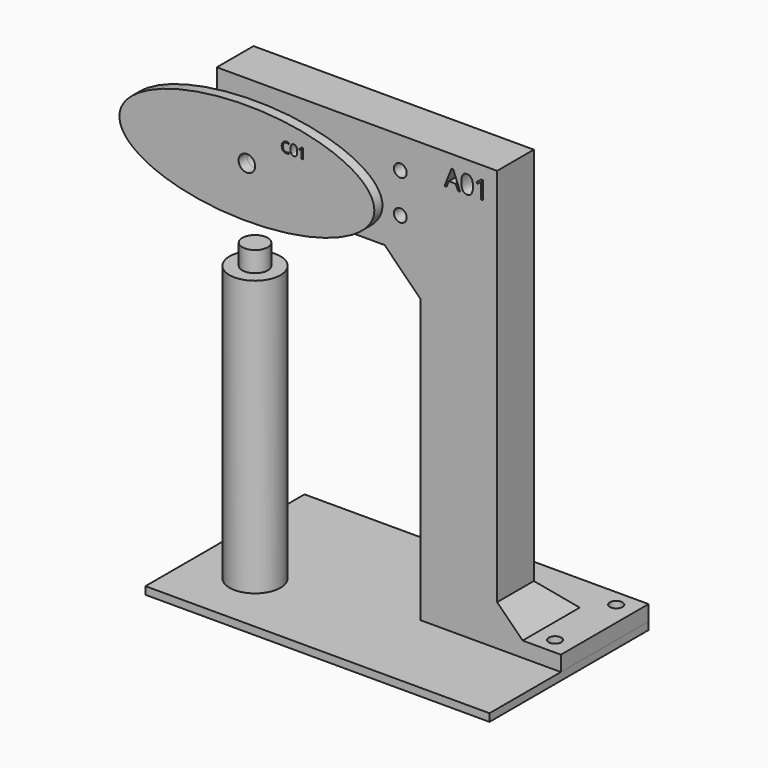
from build123d import *

# Parameters (mm, degrees)
F1_DEPTH  = 18
F2_R      = 2.5
F2_R_2    = 8.5
F3_DEPTH  = 18.0010001
F4_W      = 80
F4_H      = 30
F5_DEPTH  = 10
F6_R      = 2.5
F7_DEPTH  = 6
F8_SIZE   = 10
F10_R     = 3.25
F11_DEPTH = 4
F12_R     = 6.25
F12_R_2   = 3.25
F13_DEPTH = 9
F14_R     = 6.25
F14_R_2   = 1.5
F15_DEPTH = 6
F16_W     = 5
F16_H     = 108
F18_W     = 135
F18_H     = 78
F19_DEPTH = 3


with BuildPart() as f1:
    # F0 (on Front) → F1 (new body)
    with BuildSketch(Plane.XZ):
        Polygon((0, 110.8578643763), (0, 0), (30, 0), (30, 165), (-80, 165), (-80, 125), (-14.1421356237, 125), align=None)
        Polygon((15.4613284809, 153.0319913823), (14.6296434245, 153.0319913823), (13.7692274298, 155.2291520858), (11.0004722695, 155.2291520858), (10.1506413574, 153.0319913823), (9.3371021568, 153.0319913823), (12.0680534509, 159.969756907), (12.7439865785, 159.969756907), align=None, mode=Mode.SUBTRACT)
        with BuildLine():
            add(Edge.make_bspline(
                [(19.9297454655, 159.1373157734), (20.5134371596, 158.2247304433), (20.5134371596, 156.4963376808)],
                knots=[0, 0, 0, 1, 1, 1], degree=2))
            add(Edge.make_bspline(
                [(20.5134371596, 156.4963376808), (20.5134371596, 154.704434423), (19.9486473986, 153.8205800312)],
                knots=[0, 0, 0, 1, 1, 1], degree=2))
            add(Edge.make_bspline(
                [(19.9486473986, 153.8205800312), (19.3838576376, 152.9367256395), (18.2210107133, 152.9367256395)],
                knots=[0, 0, 0, 1, 1, 1], degree=2))
            add(Edge.make_bspline(
                [(18.2210107133, 152.9367256395), (17.1065527378, 152.9367256395), (16.5251292757, 153.8417501963)],
                knots=[0, 0, 0, 1, 1, 1], degree=2))
            add(Edge.make_bspline(
                [(16.5251292757, 153.8417501963), (15.9437058136, 154.7467747531), (15.9437058136, 156.4963376808)],
                knots=[0, 0, 0, 1, 1, 1], degree=2))
            add(Edge.make_bspline(
                [(15.9437058136, 156.4963376808), (15.9437058136, 158.3003381757), (16.5062273426, 159.1751196396)],
                knots=[0, 0, 0, 1, 1, 1], degree=2))
            add(Edge.make_bspline(
                [(16.5062273426, 159.1751196396), (17.0687488716, 160.0499011034), (18.2210107133, 160.0499011034)],
                knots=[0, 0, 0, 1, 1, 1], degree=2))
            add(Edge.make_bspline(
                [(18.2210107133, 160.0499011034), (19.3460537714, 160.0499011034), (19.9297454655, 159.1373157734)],
                knots=[0, 0, 0, 1, 1, 1], degree=2))
        make_face(mode=Mode.SUBTRACT)
        with BuildLine():
            Line((24.3724558211, 159.9410259687), (24.3724558211, 153.0319913823))
            Line((24.3724558211, 153.0319913823), (23.6073055693, 153.0319913823))
            Line((23.6073055693, 153.0319913823), (23.6073055693, 157.955566916))
            add(Edge.make_bspline(
                [(23.6073055693, 157.955566916), (23.6073055693, 158.5710138577), (23.6451094355, 159.1184138403)],
                knots=[0, 0, 0, 1, 1, 1], degree=2))
            add(Edge.make_bspline(
                [(23.6451094355, 159.1184138403), (23.5468193833, 159.0186116335), (23.4235787795, 158.9104925762)],
                knots=[0, 0, 0, 1, 1, 1], degree=2))
            add(Edge.make_bspline(
                [(23.4235787795, 158.9104925762), (23.3003381757, 158.8023735188), (22.2992917988, 157.9888343183)],
                knots=[0, 0, 0, 1, 1, 1], degree=2))
            Line((22.2992917988, 157.9888343183), (21.8834492706, 158.5271613729))
            Line((21.8834492706, 158.5271613729), (23.71164424, 159.9410259687))
            Line((23.71164424, 159.9410259687), (24.3724558211, 159.9410259687))
        make_face(mode=Mode.SUBTRACT)
    extrude(amount=F1_DEPTH)

    # F2 (on face) → F3 (cut, through all)
    with BuildSketch(Plane.XZ.offset(18)):
        with Locations((-75, 152.75)):
            Circle(F2_R)
        with Locations((-75, 137.25)):
            Circle(F2_R)
        with Locations((-8, 137.25)):
            Circle(F2_R)
        with Locations((-8, 152.75)):
            Circle(F2_R)
        with Locations((-57, 145)):
            Circle(F2_R_2)
    extrude(amount=-F3_DEPTH, mode=Mode.SUBTRACT)

    # F4 (on face) → F5 (cut)
    with BuildSketch(Plane(origin=(0, 0, 0), x_dir=(-1, 0, 0), z_dir=(0, 1, 0))):
        with Locations((40, 145)):
            Rectangle(F4_W, F4_H)
    extrude(amount=-F5_DEPTH, mode=Mode.SUBTRACT)

    # F6 (on Top) → F7 (join)
    with BuildSketch(Plane.XY):
        Polygon((55, 25), (0, 25), (0, 0), (0, -18), (30, -18), (55, -18), align=None)
        with Locations((47.5, -11.5)):
            Circle(F6_R, mode=Mode.SUBTRACT)
        with Locations((7.5, 18.5)):
            Circle(F6_R, mode=Mode.SUBTRACT)
        with Locations((47.5, 18.5)):
            Circle(F6_R, mode=Mode.SUBTRACT)
    extrude(amount=F7_DEPTH)

    # F8
    f8_edges = [f1.edges().sort_by_distance(p)[0] for p in [
        (30, -9, 6),
        (15, 0, 6),
    ]]
    chamfer(f8_edges, length=F8_SIZE)


with BuildPart() as f11:
    # F10 (on offset) → F11 (new body)
    with BuildSketch(Plane.XZ.offset(28)):
        with BuildLine():
            add(Edge.make_bspline(
                [(-107, 145), (-107, 110.3589838486), (-32, 127.6794919243), (43, 145), (-32, 162.3205080757), (-107, 179.6410161514), (-107, 145)],
                knots=[0, 0, 0, 2.0943951024, 2.0943951024, 4.1887902048, 4.1887902048, 6.2831853072, 6.2831853072, 6.2831853072], degree=2, weights=[1, 0.5, 1, 0.5, 1, 0.5, 1]))
        make_face()
        with Locations((-57, 145)):
            Circle(F10_R, mode=Mode.SUBTRACT)
        with BuildLine():
            add(Edge.make_bspline(
                [(-40.5210034417, 156.906631814), (-40.9718289642, 157.1177119719), (-41.4226544866, 157.1177119719)],
                knots=[0, 0, 0, 1, 1, 1], degree=2))
            add(Edge.make_bspline(
                [(-41.4226544866, 157.1177119719), (-42.0767423833, 157.1177119719), (-42.4554705678, 156.6820876954)],
                knots=[0, 0, 0, 1, 1, 1], degree=2))
            add(Edge.make_bspline(
                [(-42.4554705678, 156.6820876954), (-42.8341987523, 156.2464634189), (-42.8341987523, 155.4890070499)],
                knots=[0, 0, 0, 1, 1, 1], degree=2))
            add(Edge.make_bspline(
                [(-42.8341987523, 155.4890070499), (-42.8341987523, 154.7107032578), (-42.4689345285, 154.2855026928)],
                knots=[0, 0, 0, 1, 1, 1], degree=2))
            add(Edge.make_bspline(
                [(-42.4689345285, 154.2855026928), (-42.1036703046, 153.8603021278), (-41.4278663423, 153.8603021278)],
                knots=[0, 0, 0, 1, 1, 1], degree=2))
            add(Edge.make_bspline(
                [(-41.4278663423, 153.8603021278), (-41.0126551675, 153.8603021278), (-40.4801772384, 154.0097086593)],
                knots=[0, 0, 0, 1, 1, 1], degree=2))
            Line((-40.4801772384, 154.0097086593), (-40.4801772384, 153.6057898387))
            add(Edge.make_bspline(
                [(-40.4801772384, 153.6057898387), (-40.8927824853, 153.4503028088), (-41.498226395, 153.4503028088)],
                knots=[0, 0, 0, 1, 1, 1], degree=2))
            add(Edge.make_bspline(
                [(-41.498226395, 153.4503028088), (-42.3746868037, 153.4503028088), (-42.8511372835, 153.982780738)],
                knots=[0, 0, 0, 1, 1, 1], degree=2))
            add(Edge.make_bspline(
                [(-42.8511372835, 153.982780738), (-43.3275877634, 154.5152586671), (-43.3275877634, 155.4950875482)],
                knots=[0, 0, 0, 1, 1, 1], degree=2))
            add(Edge.make_bspline(
                [(-43.3275877634, 155.4950875482), (-43.3275877634, 156.1083492415), (-43.0982661104, 156.5695984755)],
                knots=[0, 0, 0, 1, 1, 1], degree=2))
            add(Edge.make_bspline(
                [(-43.0982661104, 156.5695984755), (-42.8689444573, 157.0308477094), (-42.4359261087, 157.2805824641)],
                knots=[0, 0, 0, 1, 1, 1], degree=2))
            add(Edge.make_bspline(
                [(-42.4359261087, 157.2805824641), (-42.0029077601, 157.5303172188), (-41.4165739882, 157.5303172188)],
                knots=[0, 0, 0, 1, 1, 1], degree=2))
            add(Edge.make_bspline(
                [(-41.4165739882, 157.5303172188), (-40.7928885834, 157.5303172188), (-40.3255588511, 157.302732851)],
                knots=[0, 0, 0, 1, 1, 1], degree=2))
            Line((-40.3255588511, 157.302732851), (-40.5210034417, 156.906631814))
        make_face(mode=Mode.SUBTRACT)
        with BuildLine():
            add(Edge.make_bspline(
                [(-37.5928091526, 157.012171893), (-37.2575130993, 156.4879460687), (-37.2575130993, 155.4950875482)],
                knots=[0, 0, 0, 1, 1, 1], degree=2))
            add(Edge.make_bspline(
                [(-37.2575130993, 155.4950875482), (-37.2575130993, 154.4657460375), (-37.5819511197, 153.9580244231)],
                knots=[0, 0, 0, 1, 1, 1], degree=2))
            add(Edge.make_bspline(
                [(-37.5819511197, 153.9580244231), (-37.9063891402, 153.4503028088), (-38.5743753189, 153.4503028088)],
                knots=[0, 0, 0, 1, 1, 1], degree=2))
            add(Edge.make_bspline(
                [(-38.5743753189, 153.4503028088), (-39.2145649336, 153.4503028088), (-39.5485580229, 153.9701854199)],
                knots=[0, 0, 0, 1, 1, 1], degree=2))
            add(Edge.make_bspline(
                [(-39.5485580229, 153.9701854199), (-39.8825511123, 154.490068031), (-39.8825511123, 155.4950875482)],
                knots=[0, 0, 0, 1, 1, 1], degree=2))
            add(Edge.make_bspline(
                [(-39.8825511123, 155.4950875482), (-39.8825511123, 156.5313782), (-39.5594160558, 157.0338879586)],
                knots=[0, 0, 0, 1, 1, 1], degree=2))
            add(Edge.make_bspline(
                [(-39.5594160558, 157.0338879586), (-39.2362809992, 157.5363977172), (-38.5743753189, 157.5363977172)],
                knots=[0, 0, 0, 1, 1, 1], degree=2))
            add(Edge.make_bspline(
                [(-38.5743753189, 157.5363977172), (-37.9281052058, 157.5363977172), (-37.5928091526, 157.012171893)],
                knots=[0, 0, 0, 1, 1, 1], degree=2))
        make_face(mode=Mode.SUBTRACT)
        with BuildLine():
            Line((-35.04073712, 157.4738554482), (-35.04073712, 153.5050272942))
            Line((-35.04073712, 153.5050272942), (-35.4802702883, 153.5050272942))
            Line((-35.4802702883, 153.5050272942), (-35.4802702883, 156.3333276814))
            add(Edge.make_bspline(
                [(-35.4802702883, 156.3333276814), (-35.4802702883, 156.6868652299), (-35.4585542227, 157.0013138601)],
                knots=[0, 0, 0, 1, 1, 1], degree=2))
            add(Edge.make_bspline(
                [(-35.4585542227, 157.0013138601), (-35.5150159933, 156.9439834469), (-35.5858103673, 156.8818754992)],
                knots=[0, 0, 0, 1, 1, 1], degree=2))
            add(Edge.make_bspline(
                [(-35.5858103673, 156.8818754992), (-35.6566047412, 156.8197675515), (-36.231646159, 156.3524378192)],
                knots=[0, 0, 0, 1, 1, 1], degree=2))
            Line((-36.231646159, 156.3524378192), (-36.4705228809, 156.6616745937))
            Line((-36.4705228809, 156.6616745937), (-35.4203339472, 157.4738554482))
            Line((-35.4203339472, 157.4738554482), (-35.04073712, 157.4738554482))
        make_face(mode=Mode.SUBTRACT)
    extrude(amount=F11_DEPTH)

    # F12 (on face) → F13 (join)
    with BuildSketch(Plane(origin=(0, -28, 0), x_dir=(-1, 0, 0), z_dir=(0, 1, 0))):
        with Locations((57, 145)):
            Circle(F12_R)
        with Locations((57, 145)):
            Circle(F12_R_2, mode=Mode.SUBTRACT)
    extrude(amount=F13_DEPTH)

    # F14 (on face) → F15 (join)
    with BuildSketch(Plane(origin=(0, -19, 0), x_dir=(-1, 0, 0), z_dir=(0, 1, 0))):
        with Locations((57, 145)):
            Circle(F14_R)
        with Locations((57, 145)):
            Circle(F14_R_2, mode=Mode.SUBTRACT)
    extrude(amount=F15_DEPTH)


with BuildPart() as f17:
    # F16 (on offset) → F17 (revolve)
    with BuildSketch(Plane.XZ.offset(28)):
        Polygon((-52, 116), (-57, 116), (-57, 0), (-52, 0), (-52, 108), align=None)
        with Locations((-49.5, 54)):
            Rectangle(F16_W, F16_H)
    revolve(axis=Axis((-57, -28, 58), (0, 0, -1)))


with BuildPart() as f19:
    # F18 (on Top) → F19 (new body)
    with BuildSketch(Plane.XY):
        with Locations((-12.5, -14)):
            Rectangle(F18_W, F18_H)
    extrude(amount=-F19_DEPTH)


solid = Compound([f1.part, f11.part, f17.part, f19.part])
